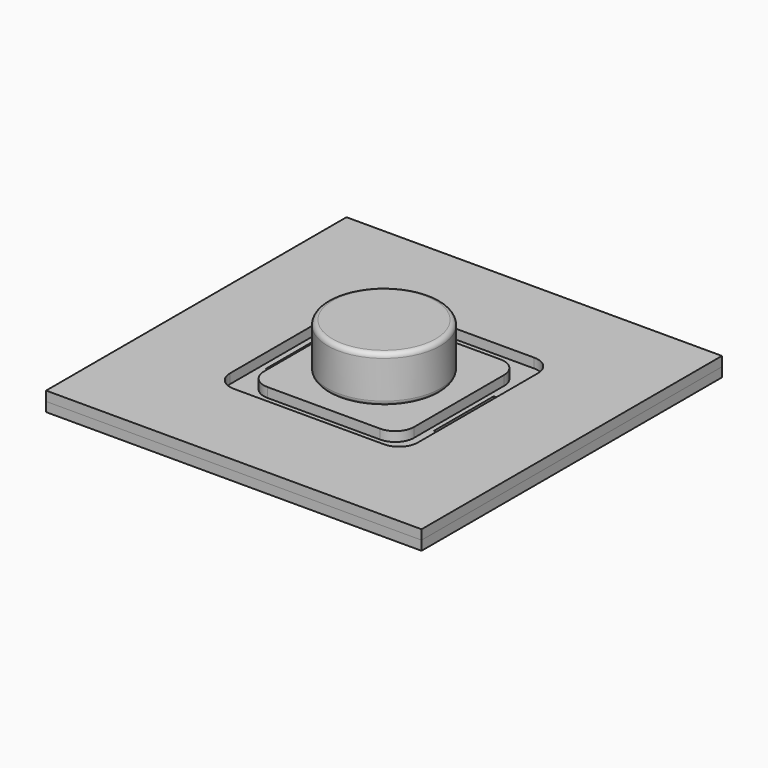
from build123d import *

# Parameters (mm, degrees)
F0_W      = 20
F0_H      = 20
F1_DEPTH  = 0.5
F2_W      = 20
F2_H      = 0.51
F3_DEPTH  = 20
F5_DEPTH  = 0.51
F6_W      = 4
F6_H      = 0.45
F6_W_2    = 0.45
F6_H_2    = 4
F7_DEPTH  = 0.5
F9_R      = 3
F10_DEPTH = 2.5
F11_R     = 0.25
F12_SCALE = 0.55


with BuildPart() as f1:
    # F0 (on Top) → F1 (new body)
    with BuildSketch(Plane.XY):
        with Locations((10, -10)):
            Rectangle(F0_W, F0_H)
    extrude(amount=F1_DEPTH)

    # F6 (on face) → F7 (cut, through all)
    with BuildSketch(Plane.XY.offset(0.5)):
        with Locations((10, -5.525)):
            Rectangle(F6_W, F6_H)
        with Locations((10, -14.475)):
            Rectangle(F6_W, F6_H)
        with Locations((5.525, -10)):
            Rectangle(F6_W_2, F6_H_2)
        with Locations((14.475, -10)):
            Rectangle(F6_W_2, F6_H_2)
    extrude(amount=-F7_DEPTH, mode=Mode.SUBTRACT)


with BuildPart() as f3:
    # F2 (on Right) → F3 (new body)
    with BuildSketch(Plane.YZ):
        with Locations((-10, 0.755)):
            Rectangle(F2_W, F2_H)
    extrude(amount=F3_DEPTH)

    # F4 (on face) → F5 (cut, through all)
    with BuildSketch(Plane.XY.offset(1.01)):
        with BuildLine():
            Line((14, -5), (6, -5))
            ThreePointArc((6, -5), (5.2928932188, -5.2928932188), (5, -6))
            Line((5, -6), (5, -14))
            ThreePointArc((5, -14), (5.2928932188, -14.7071067812), (6, -15))
            Line((6, -15), (14, -15))
            ThreePointArc((14, -15), (14.7071067812, -14.7071067812), (15, -14))
            Line((15, -14), (15, -6))
            ThreePointArc((15, -6), (14.7071067812, -5.2928932188), (14, -5))
        make_face()
        with BuildLine():
            ThreePointArc((6, -7), (6.2928932188, -6.2928932188), (7, -6))
            Line((7, -6), (13, -6))
            ThreePointArc((13, -6), (13.7071067812, -6.2928932188), (14, -7))
            Line((14, -7), (14, -13))
            ThreePointArc((14, -13), (13.7071067812, -13.7071067812), (13, -14))
            Line((13, -14), (7, -14))
            ThreePointArc((7, -14), (6.2928932188, -13.7071067812), (6, -13))
            Line((6, -13), (6, -7))
        make_face(mode=Mode.SUBTRACT)
    extrude(amount=-F5_DEPTH, mode=Mode.SUBTRACT)


with BuildPart() as f10:
    # F9 (on offset) → F10 (new body)
    with BuildSketch(Plane.XY.offset(1.015)):
        with Locations((10, -10)):
            Circle(F9_R)
    extrude(amount=F10_DEPTH)

    # F11
    f11_edges = [f10.edges().sort_by_distance(p)[0] for p in [
        (7, -10, 3.515),
        (7, -10, 1.015),
    ]]
    fillet(f11_edges, radius=F11_R)


with BuildPart() as f1_1:
    # F12: moved
    add(f1.part.scale(F12_SCALE).moved(Location((0, 0, 0.4545))))


with BuildPart() as f3_1:
    # F12: moved
    add(f3.part.scale(F12_SCALE).moved(Location((0, 0, 0.4545))))


with BuildPart() as f10_1:
    # F12: moved
    add(f10.part.scale(F12_SCALE).moved(Location((0, 0, 0.4545))))


solid = Compound([f1_1.part, f3_1.part, f10_1.part])
